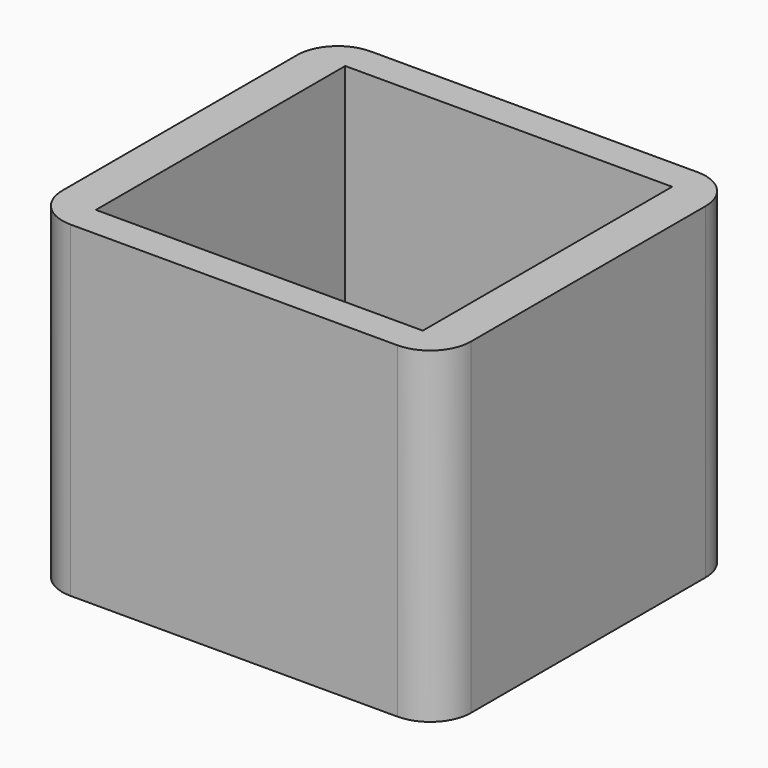
from build123d import *

# Parameters (mm, degrees)
F0_W     = 50.8
F0_H     = 48.42591
F1_DEPTH = 50.8
F2_W     = 51.555392
F2_H     = 49.770784
F3_DEPTH = 0.254


with BuildPart() as f1:
    # F0 (on Top) → F1 (new body)
    with BuildSketch(Plane.XY):
        with BuildLine():
            ThreePointArc((31.75, 22.785854), (29.890128, 27.275982), (25.4, 29.135854))
            Line((25.4, 29.135854), (-25.4, 29.135854))
            ThreePointArc((-25.4, 29.135854), (-29.890128, 27.275982), (-31.75, 22.785854))
            Line((-31.75, 22.785854), (-31.75, -22.785854))
            ThreePointArc((-31.75, -22.785854), (-29.890128, -27.275982), (-25.4, -29.135854))
            Line((-25.4, -29.135854), (25.4, -29.135854))
            ThreePointArc((25.4, -29.135854), (29.890128, -27.275982), (31.75, -22.785854))
            Line((31.75, -22.785854), (31.75, 22.785854))
        make_face()
        Rectangle(F0_W, F0_H, mode=Mode.SUBTRACT)
    extrude(amount=F1_DEPTH)

    # F2 (on Top) → F3 (join)
    with BuildSketch(Plane.XY):
        Rectangle(F2_W, F2_H)
    extrude(amount=F3_DEPTH)


solid = f1.part
